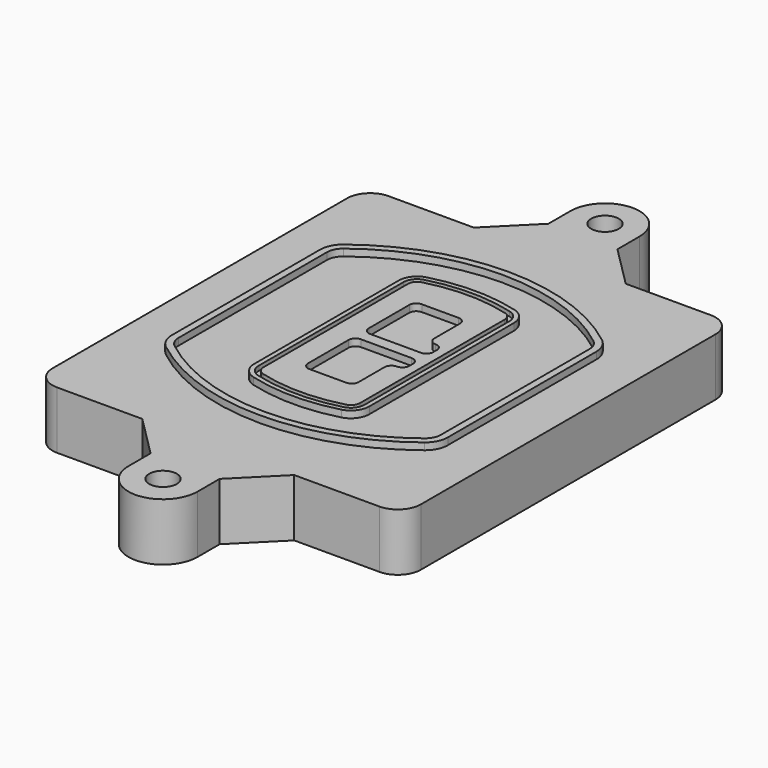
from build123d import *

# Parameters (mm, degrees)
F0_R      = 4
F1_DEPTH  = 25
F2_DEPTH  = 3
F3_DEPTH  = 18
F5_DEPTH  = 21
F6_DEPTH  = 2
F8_DEPTH  = 20
F9_DEPTH  = 16
F10_DEPTH = 25
F7_R      = 6
F7_R_2    = 4
F11_DEPTH = 6
F13_DEPTH = 9
F14_R     = 3
F15_R     = 2
F16_R     = 6
F17_DEPTH = 25


with BuildPart() as f1:
    # F0 (on Top) → F1 (new body)
    with BuildSketch(Plane.XY):
        with BuildLine():
            ThreePointArc((-80, -80), (-77.0710678119, -87.0710678119), (-70, -90))
            Line((-70, -90), (70, -90))
            ThreePointArc((70, -90), (77.0710678119, -87.0710678119), (80, -80))
            Line((80, -80), (80, 80))
            ThreePointArc((80, 80), (77.0710678119, 87.0710678119), (70, 90))
            Line((70, 90), (-70, 90))
            ThreePointArc((-70, 90), (-77.0710678119, 87.0710678119), (-80, 80))
            Line((-80, 80), (-80, -80))
        make_face()
        with Locations((-60, -67.5)):
            Circle(F0_R, mode=Mode.SUBTRACT)
        with Locations((60, -67.5)):
            Circle(F0_R, mode=Mode.SUBTRACT)
        with Locations((-60, 67.5)):
            Circle(F0_R, mode=Mode.SUBTRACT)
        with BuildLine():
            ThreePointArc((-64, 40.2934422872), (-62.5820384798, 46.4328484224), (-58.6153846154, 51.3286200352))
            ThreePointArc((-58.6153846154, 51.3286200352), (0, 71.5), (58.6153846154, 51.3286200352))
            ThreePointArc((58.6153846154, 51.3286200352), (62.5820384798, 46.4328484224), (64, 40.2934422872))
            Line((64, 40.2934422872), (64, -40.2934422872))
            ThreePointArc((64, -40.2934422872), (62.5820384798, -46.4328484224), (58.6153846154, -51.3286200352))
            ThreePointArc((58.6153846154, -51.3286200352), (0, -71.5), (-58.6153846154, -51.3286200352))
            ThreePointArc((-58.6153846154, -51.3286200352), (-62.5820384798, -46.4328484224), (-64, -40.2934422872))
            Line((-64, -40.2934422872), (-64, 40.2934422872))
        make_face(mode=Mode.SUBTRACT)
        with Locations((60, 67.5)):
            Circle(F0_R, mode=Mode.SUBTRACT)
        with BuildLine():
            ThreePointArc((58.6153846154, 51.3286200352), (0, 71.5), (-58.6153846154, 51.3286200352))
            ThreePointArc((-58.6153846154, 51.3286200352), (-62.5820384798, 46.4328484224), (-64, 40.2934422872))
            Line((-64, 40.2934422872), (-64, -40.2934422872))
            ThreePointArc((-64, -40.2934422872), (-62.5820384798, -46.4328484224), (-58.6153846154, -51.3286200352))
            ThreePointArc((-58.6153846154, -51.3286200352), (0, -71.5), (58.6153846154, -51.3286200352))
            ThreePointArc((58.6153846154, -51.3286200352), (62.5820384798, -46.4328484224), (64, -40.2934422872))
            Line((64, -40.2934422872), (64, 40.2934422872))
            ThreePointArc((64, 40.2934422872), (62.5820384798, 46.4328484224), (58.6153846154, 51.3286200352))
        make_face()
        with BuildLine():
            Line((-60, -40.2934422872), (-60, 40.2934422872))
            ThreePointArc((-60, 40.2934422872), (-58.9871703427, 44.6787323838), (-56.1538461538, 48.1757121072))
            ThreePointArc((-56.1538461538, 48.1757121072), (0, 67.5), (56.1538461538, 48.1757121072))
            ThreePointArc((56.1538461538, 48.1757121072), (58.9871703427, 44.6787323838), (60, 40.2934422872))
            Line((60, 40.2934422872), (60, -40.2934422872))
            ThreePointArc((60, -40.2934422872), (58.9871703427, -44.6787323838), (56.1538461538, -48.1757121072))
            ThreePointArc((56.1538461538, -48.1757121072), (0, -67.5), (-56.1538461538, -48.1757121072))
            ThreePointArc((-56.1538461538, -48.1757121072), (-58.9871703427, -44.6787323838), (-60, -40.2934422872))
        make_face(mode=Mode.SUBTRACT)
        with BuildLine():
            ThreePointArc((-56.1538461538, 48.1757121072), (-58.9871703427, 44.6787323838), (-60, 40.2934422872))
            Line((-60, 40.2934422872), (-60, -40.2934422872))
            ThreePointArc((-60, -40.2934422872), (-58.9871703427, -44.6787323838), (-56.1538461538, -48.1757121072))
            ThreePointArc((-56.1538461538, -48.1757121072), (0, -67.5), (56.1538461538, -48.1757121072))
            ThreePointArc((56.1538461538, -48.1757121072), (58.9871703427, -44.6787323838), (60, -40.2934422872))
            Line((60, -40.2934422872), (60, 40.2934422872))
            ThreePointArc((60, 40.2934422872), (58.9871703427, 44.6787323838), (56.1538461538, 48.1757121072))
            ThreePointArc((56.1538461538, 48.1757121072), (0, 67.5), (-56.1538461538, 48.1757121072))
        make_face()
        with BuildLine():
            ThreePointArc((54.3076923077, 45.8110311612), (56.2910192399, 43.3631453548), (57, 40.2934422872))
            Line((57, 40.2934422872), (57, -40.2934422872))
            ThreePointArc((57, -40.2934422872), (56.2910192399, -43.3631453548), (54.3076923077, -45.8110311612))
            ThreePointArc((54.3076923077, -45.8110311612), (0, -64.5), (-54.3076923077, -45.8110311612))
            ThreePointArc((-54.3076923077, -45.8110311612), (-56.2910192399, -43.3631453548), (-57, -40.2934422872))
            Line((-57, -40.2934422872), (-57, 40.2934422872))
            ThreePointArc((-57, 40.2934422872), (-56.2910192399, 43.3631453548), (-54.3076923077, 45.8110311612))
            ThreePointArc((-54.3076923077, 45.8110311612), (0, 64.5), (54.3076923077, 45.8110311612))
        make_face(mode=Mode.SUBTRACT)
        with BuildLine():
            Line((57, -40.2934422872), (57, 40.2934422872))
            ThreePointArc((57, 40.2934422872), (56.2910192399, 43.3631453548), (54.3076923077, 45.8110311612))
            ThreePointArc((54.3076923077, 45.8110311612), (0, 64.5), (-54.3076923077, 45.8110311612))
            ThreePointArc((-54.3076923077, 45.8110311612), (-56.2910192399, 43.3631453548), (-57, 40.2934422872))
            Line((-57, 40.2934422872), (-57, -40.2934422872))
            ThreePointArc((-57, -40.2934422872), (-56.2910192399, -43.3631453548), (-54.3076923077, -45.8110311612))
            ThreePointArc((-54.3076923077, -45.8110311612), (0, -64.5), (54.3076923077, -45.8110311612))
            ThreePointArc((54.3076923077, -45.8110311612), (56.2910192399, -43.3631453548), (57, -40.2934422872))
        make_face()
    extrude(amount=-F1_DEPTH)

    # F0 (on Top) → F2 (join)
    with BuildSketch(Plane.XY):
        with BuildLine():
            ThreePointArc((-56.1538461538, 48.1757121072), (-58.9871703427, 44.6787323838), (-60, 40.2934422872))
            Line((-60, 40.2934422872), (-60, -40.2934422872))
            ThreePointArc((-60, -40.2934422872), (-58.9871703427, -44.6787323838), (-56.1538461538, -48.1757121072))
            ThreePointArc((-56.1538461538, -48.1757121072), (0, -67.5), (56.1538461538, -48.1757121072))
            ThreePointArc((56.1538461538, -48.1757121072), (58.9871703427, -44.6787323838), (60, -40.2934422872))
            Line((60, -40.2934422872), (60, 40.2934422872))
            ThreePointArc((60, 40.2934422872), (58.9871703427, 44.6787323838), (56.1538461538, 48.1757121072))
            ThreePointArc((56.1538461538, 48.1757121072), (0, 67.5), (-56.1538461538, 48.1757121072))
        make_face()
        with BuildLine():
            ThreePointArc((54.3076923077, 45.8110311612), (56.2910192399, 43.3631453548), (57, 40.2934422872))
            Line((57, 40.2934422872), (57, -40.2934422872))
            ThreePointArc((57, -40.2934422872), (56.2910192399, -43.3631453548), (54.3076923077, -45.8110311612))
            ThreePointArc((54.3076923077, -45.8110311612), (0, -64.5), (-54.3076923077, -45.8110311612))
            ThreePointArc((-54.3076923077, -45.8110311612), (-56.2910192399, -43.3631453548), (-57, -40.2934422872))
            Line((-57, -40.2934422872), (-57, 40.2934422872))
            ThreePointArc((-57, 40.2934422872), (-56.2910192399, 43.3631453548), (-54.3076923077, 45.8110311612))
            ThreePointArc((-54.3076923077, 45.8110311612), (0, 64.5), (54.3076923077, 45.8110311612))
        make_face(mode=Mode.SUBTRACT)
    extrude(amount=F2_DEPTH)

    # F0 (on Top) → F3 (cut)
    with BuildSketch(Plane.XY):
        with BuildLine():
            Line((57, -40.2934422872), (57, 40.2934422872))
            ThreePointArc((57, 40.2934422872), (56.2910192399, 43.3631453548), (54.3076923077, 45.8110311612))
            ThreePointArc((54.3076923077, 45.8110311612), (0, 64.5), (-54.3076923077, 45.8110311612))
            ThreePointArc((-54.3076923077, 45.8110311612), (-56.2910192399, 43.3631453548), (-57, 40.2934422872))
            Line((-57, 40.2934422872), (-57, -40.2934422872))
            ThreePointArc((-57, -40.2934422872), (-56.2910192399, -43.3631453548), (-54.3076923077, -45.8110311612))
            ThreePointArc((-54.3076923077, -45.8110311612), (0, -64.5), (54.3076923077, -45.8110311612))
            ThreePointArc((54.3076923077, -45.8110311612), (56.2910192399, -43.3631453548), (57, -40.2934422872))
        make_face()
    extrude(amount=-F3_DEPTH, mode=Mode.SUBTRACT)

    # F4 (on face) → F5 (join, through all)
    with BuildSketch(Plane.XY.offset(3)):
        with BuildLine():
            ThreePointArc((-25, -39.2465276821), (-23.3511545998, -44.1109737193), (-19.0842911877, -46.9702398883))
            ThreePointArc((-19.0842911877, -46.9702398883), (0, -49.5), (19.0842911877, -46.9702398883))
            ThreePointArc((19.0842911877, -46.9702398883), (23.3511545998, -44.1109737193), (25, -39.2465276821))
            Line((25, -39.2465276821), (25, 39.2465276821))
            ThreePointArc((25, 39.2465276821), (23.3511545998, 44.1109737193), (19.0842911877, 46.9702398883))
            ThreePointArc((19.0842911877, 46.9702398883), (0, 49.5), (-19.0842911877, 46.9702398883))
            ThreePointArc((-19.0842911877, 46.9702398883), (-23.3511545998, 44.1109737193), (-25, 39.2465276821))
            Line((-25, 39.2465276821), (-25, -39.2465276821))
        make_face()
        with BuildLine():
            ThreePointArc((18.5632183908, 45.0393118368), (21.7633659499, 42.89486221), (23, 39.2465276821))
            Line((23, 39.2465276821), (23, -39.2465276821))
            ThreePointArc((23, -39.2465276821), (21.7633659499, -42.89486221), (18.5632183908, -45.0393118368))
            ThreePointArc((18.5632183908, -45.0393118368), (0, -47.5), (-18.5632183908, -45.0393118368))
            ThreePointArc((-18.5632183908, -45.0393118368), (-21.7633659499, -42.89486221), (-23, -39.2465276821))
            Line((-23, -39.2465276821), (-23, 39.2465276821))
            ThreePointArc((-23, 39.2465276821), (-21.7633659499, 42.89486221), (-18.5632183908, 45.0393118368))
            ThreePointArc((-18.5632183908, 45.0393118368), (0, 47.5), (18.5632183908, 45.0393118368))
        make_face(mode=Mode.SUBTRACT)
        with BuildLine():
            Line((23, -39.2465276821), (23, 39.2465276821))
            ThreePointArc((23, 39.2465276821), (21.7633659499, 42.89486221), (18.5632183908, 45.0393118368))
            ThreePointArc((18.5632183908, 45.0393118368), (0, 47.5), (-18.5632183908, 45.0393118368))
            ThreePointArc((-18.5632183908, 45.0393118368), (-21.7633659499, 42.89486221), (-23, 39.2465276821))
            Line((-23, 39.2465276821), (-23, -39.2465276821))
            ThreePointArc((-23, -39.2465276821), (-21.7633659499, -42.89486221), (-18.5632183908, -45.0393118368))
            ThreePointArc((-18.5632183908, -45.0393118368), (0, -47.5), (18.5632183908, -45.0393118368))
            ThreePointArc((18.5632183908, -45.0393118368), (21.7633659499, -42.89486221), (23, -39.2465276821))
        make_face()
        with BuildLine():
            ThreePointArc((18.0421455939, 43.1083837852), (20.1755772999, 41.6787507007), (21, 39.2465276821))
            Line((21, 39.2465276821), (21, -39.2465276821))
            ThreePointArc((21, -39.2465276821), (20.1755772999, -41.6787507007), (18.0421455939, -43.1083837852))
            ThreePointArc((18.0421455939, -43.1083837852), (0, -45.5), (-18.0421455939, -43.1083837852))
            ThreePointArc((-18.0421455939, -43.1083837852), (-20.1755772999, -41.6787507007), (-21, -39.2465276821))
            Line((-21, -39.2465276821), (-21, 39.2465276821))
            ThreePointArc((-21, 39.2465276821), (-20.1755772999, 41.6787507007), (-18.0421455939, 43.1083837852))
            ThreePointArc((-18.0421455939, 43.1083837852), (0, 45.5), (18.0421455939, 43.1083837852))
        make_face(mode=Mode.SUBTRACT)
        with BuildLine():
            Line((21, -39.2465276821), (21, 39.2465276821))
            ThreePointArc((21, 39.2465276821), (20.1755772999, 41.6787507007), (18.0421455939, 43.1083837852))
            ThreePointArc((18.0421455939, 43.1083837852), (0, 45.5), (-18.0421455939, 43.1083837852))
            ThreePointArc((-18.0421455939, 43.1083837852), (-20.1755772999, 41.6787507007), (-21, 39.2465276821))
            Line((-21, 39.2465276821), (-21, -39.2465276821))
            ThreePointArc((-21, -39.2465276821), (-20.1755772999, -41.6787507007), (-18.0421455939, -43.1083837852))
            ThreePointArc((-18.0421455939, -43.1083837852), (0, -45.5), (18.0421455939, -43.1083837852))
            ThreePointArc((18.0421455939, -43.1083837852), (20.1755772999, -41.6787507007), (21, -39.2465276821))
        make_face()
        with BuildLine():
            Line((-8, -2.5), (14, -2.5))
            ThreePointArc((14, -2.5), (16.1213203436, -3.3786796564), (17, -5.5))
            Line((17, -5.5), (17, -7.5))
            ThreePointArc((17, -7.5), (16.1213203436, -9.6213203436), (14, -10.5))
            ThreePointArc((14, -10.5), (11.8786796564, -11.3786796564), (11, -13.5))
            Line((11, -13.5), (11, -27.5))
            ThreePointArc((11, -27.5), (10.1213203436, -29.6213203436), (8, -30.5))
            Line((8, -30.5), (-8, -30.5))
            ThreePointArc((-8, -30.5), (-10.1213203436, -29.6213203436), (-11, -27.5))
            Line((-11, -27.5), (-11, -5.5))
            ThreePointArc((-11, -5.5), (-10.1213203436, -3.3786796564), (-8, -2.5))
        make_face(mode=Mode.SUBTRACT)
        with BuildLine():
            ThreePointArc((-8, 2.5), (-10.1213203436, 3.3786796564), (-11, 5.5))
            Line((-11, 5.5), (-11, 27.5))
            ThreePointArc((-11, 27.5), (-10.1213203436, 29.6213203436), (-8, 30.5))
            Line((-8, 30.5), (8, 30.5))
            ThreePointArc((8, 30.5), (10.1213203436, 29.6213203436), (11, 27.5))
            Line((11, 27.5), (11, 13.5))
            ThreePointArc((11, 13.5), (11.8786796564, 11.3786796564), (14, 10.5))
            ThreePointArc((14, 10.5), (16.1213203436, 9.6213203436), (17, 7.5))
            Line((17, 7.5), (17, 5.5))
            ThreePointArc((17, 5.5), (16.1213203436, 3.3786796564), (14, 2.5))
            Line((14, 2.5), (-8, 2.5))
        make_face(mode=Mode.SUBTRACT)
    extrude(amount=-F5_DEPTH)

    # F4 (on face) → F6 (cut)
    with BuildSketch(Plane.XY.offset(3)):
        with BuildLine():
            Line((23, -39.2465276821), (23, 39.2465276821))
            ThreePointArc((23, 39.2465276821), (21.7633659499, 42.89486221), (18.5632183908, 45.0393118368))
            ThreePointArc((18.5632183908, 45.0393118368), (0, 47.5), (-18.5632183908, 45.0393118368))
            ThreePointArc((-18.5632183908, 45.0393118368), (-21.7633659499, 42.89486221), (-23, 39.2465276821))
            Line((-23, 39.2465276821), (-23, -39.2465276821))
            ThreePointArc((-23, -39.2465276821), (-21.7633659499, -42.89486221), (-18.5632183908, -45.0393118368))
            ThreePointArc((-18.5632183908, -45.0393118368), (0, -47.5), (18.5632183908, -45.0393118368))
            ThreePointArc((18.5632183908, -45.0393118368), (21.7633659499, -42.89486221), (23, -39.2465276821))
        make_face()
        with BuildLine():
            ThreePointArc((18.0421455939, 43.1083837852), (20.1755772999, 41.6787507007), (21, 39.2465276821))
            Line((21, 39.2465276821), (21, -39.2465276821))
            ThreePointArc((21, -39.2465276821), (20.1755772999, -41.6787507007), (18.0421455939, -43.1083837852))
            ThreePointArc((18.0421455939, -43.1083837852), (0, -45.5), (-18.0421455939, -43.1083837852))
            ThreePointArc((-18.0421455939, -43.1083837852), (-20.1755772999, -41.6787507007), (-21, -39.2465276821))
            Line((-21, -39.2465276821), (-21, 39.2465276821))
            ThreePointArc((-21, 39.2465276821), (-20.1755772999, 41.6787507007), (-18.0421455939, 43.1083837852))
            ThreePointArc((-18.0421455939, 43.1083837852), (0, 45.5), (18.0421455939, 43.1083837852))
        make_face(mode=Mode.SUBTRACT)
    extrude(amount=-F6_DEPTH, mode=Mode.SUBTRACT)

    # F7 (on face) → F8 (join)
    with BuildSketch(Plane(origin=(0, 0, -25), x_dir=(1, 0, 0), z_dir=(0, 0, -1))):
        with BuildLine():
            ThreePointArc((3.28842436, 0), (16.7567035675, 13.4682792075), (30.224982775, 0))
            Line((30.224982775, 0), (35.224982775, 0))
            ThreePointArc((35.224982775, 0), (16.7567035675, 18.4682792075), (-1.71157564, 0))
            Line((-1.71157564, 0), (3.28842436, 0))
        make_face()
        with BuildLine():
            Line((3.28842436, 0), (30.224982775, 0))
            ThreePointArc((30.224982775, 0), (16.7567035675, 13.4682792075), (3.28842436, 0))
        make_face()
        with BuildLine():
            ThreePointArc((3.28842436, 0), (16.7567035675, -13.4682792075), (30.224982775, 0))
            Line((30.224982775, 0), (3.28842436, 0))
        make_face()
        with BuildLine():
            Line((35.224982775, 0), (30.224982775, 0))
            ThreePointArc((30.224982775, 0), (16.7567035675, -13.4682792075), (3.28842436, 0))
            Line((3.28842436, 0), (-1.71157564, 0))
            ThreePointArc((-1.71157564, 0), (16.7567035675, -18.4682792075), (35.224982775, 0))
        make_face()
    extrude(amount=-F8_DEPTH)

    # F7 (on face) → F9 (cut)
    with BuildSketch(Plane(origin=(0, 0, -25), x_dir=(1, 0, 0), z_dir=(0, 0, -1))):
        with BuildLine():
            Line((3.28842436, 0), (30.224982775, 0))
            ThreePointArc((30.224982775, 0), (16.7567035675, 13.4682792075), (3.28842436, 0))
        make_face()
        with BuildLine():
            ThreePointArc((3.28842436, 0), (16.7567035675, -13.4682792075), (30.224982775, 0))
            Line((30.224982775, 0), (3.28842436, 0))
        make_face()
    extrude(amount=-F9_DEPTH, mode=Mode.SUBTRACT)

    # F7 (on face) → F10 (cut)
    with BuildSketch(Plane(origin=(0, 0, -25), x_dir=(1, 0, 0), z_dir=(0, 0, -1))):
        with BuildLine():
            Line((-59.0318229325, 0), (-32.0952645175, 0))
            ThreePointArc((-32.0952645175, 0), (-45.563543725, 13.4682792075), (-59.0318229325, 0))
        make_face()
        with BuildLine():
            ThreePointArc((-59.0318229325, 0), (-45.563543725, -13.4682792075), (-32.0952645175, 0))
            Line((-32.0952645175, 0), (-59.0318229325, 0))
        make_face()
    extrude(amount=-F10_DEPTH, mode=Mode.SUBTRACT)

    # F7 (on face) → F11 (cut)
    with BuildSketch(Plane(origin=(0, 0, -25), x_dir=(1, 0, 0), z_dir=(0, 0, -1))):
        with Locations((60, -67.5)):
            Circle(F7_R)
        with Locations((60, -67.5)):
            Circle(F7_R_2, mode=Mode.SUBTRACT)
        with Locations((60, -67.5)):
            Circle(F7_R)
        with Locations((60, -67.5)):
            Circle(F7_R_2, mode=Mode.SUBTRACT)
        with Locations((-60, -67.5)):
            Circle(F7_R)
        with Locations((-60, -67.5)):
            Circle(F7_R_2, mode=Mode.SUBTRACT)
        with Locations((-60, -67.5)):
            Circle(F7_R)
        with Locations((-60, -67.5)):
            Circle(F7_R_2, mode=Mode.SUBTRACT)
        with Locations((-60, 67.5)):
            Circle(F7_R)
        with Locations((-60, 67.5)):
            Circle(F7_R_2, mode=Mode.SUBTRACT)
        with Locations((-60, 67.5)):
            Circle(F7_R)
        with Locations((-60, 67.5)):
            Circle(F7_R_2, mode=Mode.SUBTRACT)
        with Locations((60, 67.5)):
            Circle(F7_R)
        with Locations((60, 67.5)):
            Circle(F7_R_2, mode=Mode.SUBTRACT)
        with Locations((60, 67.5)):
            Circle(F7_R)
        with Locations((60, 67.5)):
            Circle(F7_R_2, mode=Mode.SUBTRACT)
    extrude(amount=-F11_DEPTH, mode=Mode.SUBTRACT)

    # F12 (on face) → F13 (cut, through all)
    with BuildSketch(Plane(origin=(0, 0, -9), x_dir=(1, 0, 0), z_dir=(0, 0, -1))):
        with BuildLine():
            Line((11, 13.5), (11, 17.5481537753))
            ThreePointArc((11, 17.5481537753), (2.5696536419, 11.8239143813), (-1.5415842455, 2.5))
            Line((-1.5415842455, 2.5), (3.5224848595, 2.5))
            ThreePointArc((3.5224848595, 2.5), (6.1857188154, 8.3455872281), (11.2536447004, 12.2927168648))
            ThreePointArc((11.2536447004, 12.2927168648), (11.0640958889, 12.8831798879), (11, 13.5))
        make_face()
        with BuildLine():
            ThreePointArc((11.2536447004, -12.2927168648), (6.1857188154, -8.3455872281), (3.5224848595, -2.5))
            Line((3.5224848595, -2.5), (-1.5415842455, -2.5))
            ThreePointArc((-1.5415842455, -2.5), (2.5696536419, -11.8239143813), (11, -17.5481537753))
            Line((11, -17.5481537753), (11, -13.5))
            ThreePointArc((11, -13.5), (11.0640958889, -12.8831798879), (11.2536447004, -12.2927168648))
        make_face()
        with BuildLine():
            ThreePointArc((11.2536447004, 12.2927168648), (6.1857188154, 8.3455872281), (3.5224848595, 2.5))
            Line((3.5224848595, 2.5), (14, 2.5))
            ThreePointArc((14, 2.5), (16.1213203436, 3.3786796564), (17, 5.5))
            Line((17, 5.5), (17, 7.5))
            ThreePointArc((17, 7.5), (16.1213203436, 9.6213203436), (14, 10.5))
            ThreePointArc((14, 10.5), (12.3601599782, 10.9878446101), (11.2536447004, 12.2927168648))
        make_face()
        with BuildLine():
            Line((14, -2.5), (3.5224848595, -2.5))
            ThreePointArc((3.5224848595, -2.5), (6.1857188154, -8.3455872281), (11.2536447004, -12.2927168648))
            ThreePointArc((11.2536447004, -12.2927168648), (12.3601599782, -10.9878446101), (14, -10.5))
            ThreePointArc((14, -10.5), (16.1213203436, -9.6213203436), (17, -7.5))
            Line((17, -7.5), (17, -5.5))
            ThreePointArc((17, -5.5), (16.1213203436, -3.3786796564), (14, -2.5))
        make_face()
    extrude(amount=F13_DEPTH, mode=Mode.SUBTRACT)

    # F14
    f14_edges = [f1.edges().sort_by_distance(p)[0] for p in [
        (-57, -23.703476, -18),
        (-57, 23.703476, -18),
        (25, 0, -5),
        (25, 16.526506, -11.5),
        (25, -16.526506, -11.5),
        (25, -27.886517, -18),
        (35.224983, 0, -18),
    ]]
    fillet(f14_edges, radius=F14_R)

    # F15
    f15_edges = [f1.edges().sort_by_distance(p)[0] for p in [
        (0, -90, -25),
    ]]
    fillet(f15_edges, radius=F15_R)


with BuildPart() as f17:
    # F16 (on face) → F17 (new body, through all)
    with BuildSketch(Plane.XY):
        with BuildLine():
            ThreePointArc((80, 80), (77.0710678119, 87.0710678119), (70, 90))
            Line((70, 90), (33, 90))
            Line((33, 90), (-33, 90))
            Line((-33, 90), (-70, 90))
            ThreePointArc((-70, 90), (-77.0710678119, 87.0710678119), (-80, 80))
            Line((-80, 80), (-80, -80))
            ThreePointArc((-80, -80), (-77.0710678119, -87.0710678119), (-70, -90))
            Line((-70, -90), (-33, -90))
            Line((-33, -90), (33, -90))
            Line((33, -90), (70, -90))
            ThreePointArc((70, -90), (77.0710678119, -87.0710678119), (80, -80))
            Line((80, -80), (80, 80))
        make_face()
        with BuildLine():
            Line((-33, 90), (33, 90))
            Line((33, 90), (15, 108))
            Line((15, 108), (15, 120))
            ThreePointArc((15, 120), (0, 135), (-15, 120))
            Line((-15, 120), (-15, 108))
            Line((-15, 108), (-33, 90))
        make_face()
        with Locations((0, 120)):
            Circle(F16_R, mode=Mode.SUBTRACT)
        with BuildLine():
            Line((15, -108), (33, -90))
            Line((33, -90), (-33, -90))
            Line((-33, -90), (-15, -108))
            Line((-15, -108), (-15, -120))
            ThreePointArc((-15, -120), (0, -135), (15, -120))
            Line((15, -120), (15, -108))
        make_face()
        with Locations((0, -120)):
            Circle(F16_R, mode=Mode.SUBTRACT)
    extrude(amount=-F17_DEPTH)


solid = Compound([f1.part, f17.part])
